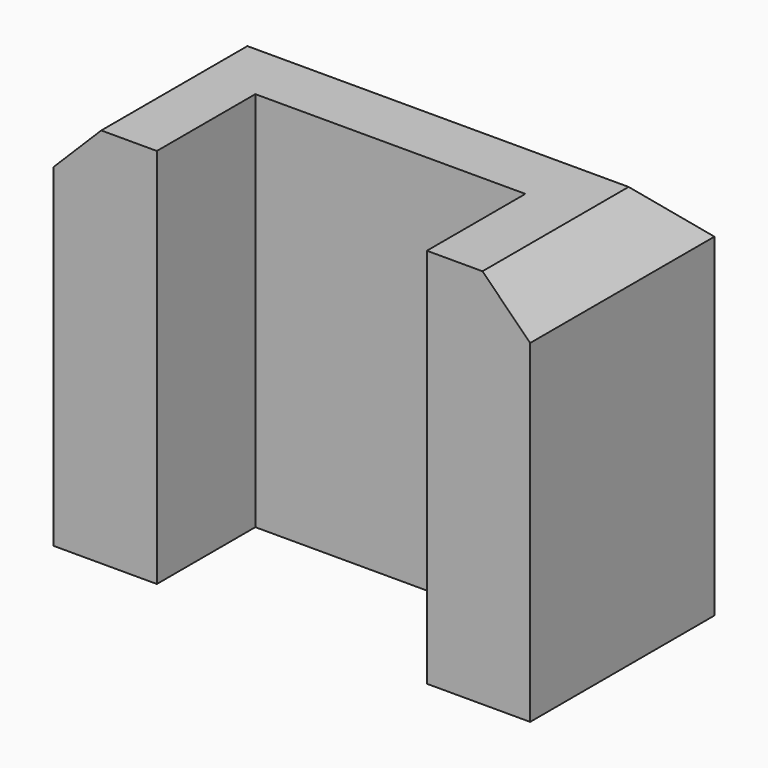
from build123d import *

# Parameters (mm, degrees)
F1_DEPTH = 48
F2_SIZE  = 6


with BuildPart() as f1:
    # F0 (on Top) → F1 (new body)
    with BuildSketch(Plane.XY):
        Polygon((30, 29), (0, 29), (-30, 29), (-30, 0), (-17, 0), (-17, 15.5), (0, 15.5), (17, 15.5), (17, 0), (30, 0), align=None)
    extrude(amount=F1_DEPTH)

    # F2
    f2_edges = [f1.edges().sort_by_distance(p)[0] for p in [
        (0, 29, 48),
        (-30, 14.5, 48),
        (30, 14.5, 48),
    ]]
    chamfer(f2_edges, length=F2_SIZE)


solid = f1.part
